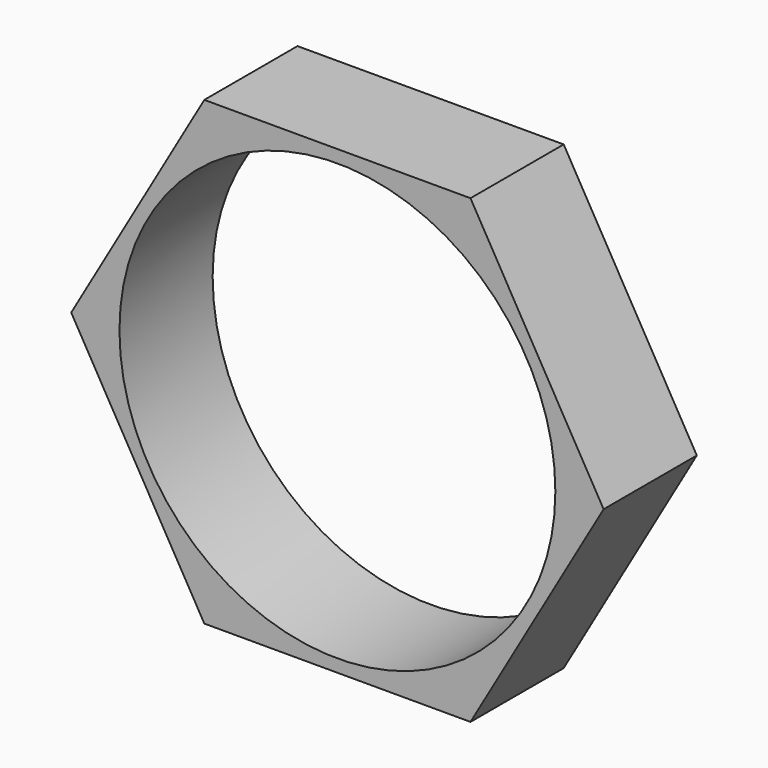
from build123d import *

# Parameters (mm, degrees)
F1_DEPTH = 25.4
F2_R     = 48.434429
F3_DEPTH = 1.18585
F4_R     = 47.525627
F5_DEPTH = 63.5


with BuildPart() as f1:
    # F0 (on Front) → F1 (new body)
    with BuildSketch(Plane.XZ):
        Polygon((29.021849, 50.267316), (-29.021849, 50.267316), (-58.043697, 0), (-29.021849, -50.267316), (29.021849, -50.267316), (58.043697, 0), align=None)
    extrude(amount=F1_DEPTH)

    # F2 (on face) → F3 (join)
    with BuildSketch(Plane(origin=(0, 0, 0), x_dir=(-1, 0, 0), z_dir=(0, 1, 0))):
        Circle(F2_R)
    extrude(amount=-F3_DEPTH)

    # F4 (on face) → F5 (cut, symmetric)
    with BuildSketch(Plane(origin=(0, 0, 0), x_dir=(-1, 0, 0), z_dir=(0, 1, 0))):
        Circle(F4_R)
    extrude(amount=F5_DEPTH, both=True, mode=Mode.SUBTRACT)


solid = f1.part
